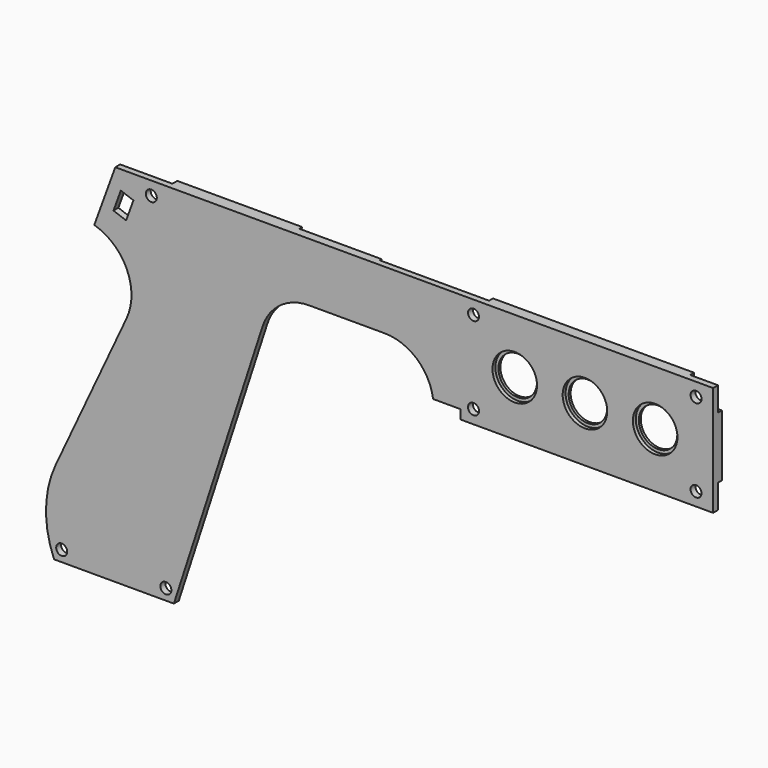
from build123d import *

# Parameters (mm, degrees)
EXTRUDE086_DEPTH = 0.8
EXTRUDE087_DEPTH = 2
SKETCH084_R      = 1.8
EXTRUDE084_DEPTH = 1.6
SKETCH082_W      = 82.8
SKETCH082_H      = 36
SKETCH082_R      = 1.8
EXTRUDE082_DEPTH = 1.6
SKETCH076_R      = 7.3
EXTRUDE077_DEPTH = 1.2
SKETCH074_R      = 1.8
SKETCH074_R_2    = 6.3
EXTRUDE076_DEPTH = 2


with BuildPart() as obj1:
    # Sketch086 → Extrude086 (new body)
    with BuildSketch(Plane(origin=(0, 0, 2), x_dir=(1, 0, 0), z_dir=(0, -1, 0))):
        with BuildLine():
            Line((-137.814627, 37.2), (-144.028897, 18.074442))
            ThreePointArc((-132.428405, 21.823197), (-138.523989, 20.862741), (-144.028897, 18.074442))
            Line((-120.896651, 21.823197), (-132.428405, 21.823197))
            ThreePointArc((-120.896651, 21.823197), (-116.782154, 23.160078), (-114.239255, 26.660078))
            Line((-110.814627, 37.2), (-114.239255, 26.660078))
            Line((-137.814627, 37.2), (-110.814627, 37.2))
        make_face()
    extrude(amount=-EXTRUDE086_DEPTH)


with BuildPart() as obj1_1:
    # Extrude086 placement: moved
    add(obj1.part.moved(Location((0, 2, 0))))


with BuildPart() as extrude087:
    # Sketch087 → Extrude087 (new body)
    with BuildSketch(Plane.XZ):
        with BuildLine():
            add(Edge.make_bspline(
                [(-183.167024, 31.421083), (-188.478801, 29.986374), (-187.676319, 25.030408), (-186.873836, 20.074442), (-181.329747, 20.074442)],
                knots=[5.002901, 5.002901, 5.002901, 6.428441, 6.428441, 7.853982, 7.853982, 7.853982], degree=2, weights=[1, 0.756553, 1, 0.756553, 1]))
            Line((-181.329747, 20.074442), (-144.028897, 20.074442))
            Line((-144.028897, 20.074442), (-137.814627, 39.2))
            Line((-137.814627, 39.2), (-178.753577, 39.2))
            Line((-178.753577, 39.2), (-180.790744, 33.602929))
            ThreePointArc((-180.790744, 33.602929), (-181.712516, 32.221901), (-183.167024, 31.421083))
        make_face()
    extrude(amount=-EXTRUDE087_DEPTH)


with BuildPart() as extrude087_1:
    # Extrude087 placement: moved
    add(extrude087.part.moved(Location((0, 2, 0))))


with BuildPart() as extrude084:
    # Sketch084 → Extrude084 (new body)
    with BuildSketch(Plane.XZ):
        with BuildLine():
            ThreePointArc((-78.51, 31.3), (-76.035126, 32.325126), (-75.01, 34.8))
            Line((-75.01, 39.2), (-75.01, 34.8))
            Line((-82.8, 39.2), (-75.01, 39.2))
            Line((-82.8, 31.3), (-82.8, 39.2))
            Line((-82.8, 31.3), (-78.51, 31.3))
        make_face()
        with Locations((-78.51, 34.8)):
            Circle(SKETCH084_R, mode=Mode.SUBTRACT)
        with BuildLine():
            ThreePointArc((-9.1, 34.8), (-8.074874, 32.325126), (-5.6, 31.3))
            Line((-5.6, 31.3), (0, 31.3))
            Line((0, 39.2), (0, 31.3))
            Line((-9.1, 39.2), (0, 39.2))
            Line((-9.1, 39.2), (-9.1, 34.8))
        make_face()
        with Locations((-5.6, 34.8)):
            Circle(SKETCH084_R, mode=Mode.SUBTRACT)
        with BuildLine():
            ThreePointArc((-75.01, 7.6), (-76.035126, 10.074874), (-78.51, 11.1))
            Line((-82.8, 11.1), (-78.51, 11.1))
            Line((-82.8, 3.2), (-82.8, 11.1))
            Line((-75.01, 3.2), (-82.8, 3.2))
            Line((-75.01, 7.6), (-75.01, 3.2))
        make_face()
        with Locations((-78.51, 7.6)):
            Circle(SKETCH084_R, mode=Mode.SUBTRACT)
        with BuildLine():
            ThreePointArc((-5.6, 11.1), (-8.074874, 10.074874), (-9.1, 7.6))
            Line((-9.1, 7.6), (-9.1, 3.2))
            Line((0, 3.2), (-9.1, 3.2))
            Line((0, 11.1), (0, 3.2))
            Line((0, 11.1), (-5.6, 11.1))
        make_face()
        with Locations((-5.6, 7.6)):
            Circle(SKETCH084_R, mode=Mode.SUBTRACT)
    extrude(amount=-EXTRUDE084_DEPTH)


with BuildPart() as extrude084_1:
    # Extrude084 placement: moved
    add(extrude084.part.moved(Location((0, 2, 0))))


with BuildPart() as cut047:
    # Sketch082 → Extrude082 (new body)
    with BuildSketch(Plane.XZ):
        with Locations((-41.4, 21.2)):
            Rectangle(SKETCH082_W, SKETCH082_H)
        with Locations((-78.51, 34.8)):
            Circle(SKETCH082_R, mode=Mode.SUBTRACT)
        with Locations((-5.6, 34.8)):
            Circle(SKETCH082_R, mode=Mode.SUBTRACT)
        with Locations((-5.6, 7.6)):
            Circle(SKETCH082_R, mode=Mode.SUBTRACT)
        with Locations((-78.51, 7.6)):
            Circle(SKETCH082_R, mode=Mode.SUBTRACT)
        with BuildLine():
            ThreePointArc((-65, 31.2), (-75, 21.2), (-65, 11.2))
            Line((-65, 11.2), (-19, 11.2))
            ThreePointArc((-19, 11.2), (-9, 21.2), (-19, 31.2))
            Line((-65, 31.2), (-19, 31.2))
        make_face(mode=Mode.SUBTRACT)
    extrude(amount=-EXTRUDE082_DEPTH)


with BuildPart() as cut047_1:
    # Extrude082 placement: moved
    add(cut047.part.moved(Location((0, 2, 0))))

    # Cut047: cut Extrude084
    add(extrude084_1.part, mode=Mode.SUBTRACT)


with BuildPart() as obj2:
    # Sketch076 → Extrude077 (new body)
    with BuildSketch(Plane.XZ):
        with Locations((-65, 21.2)):
            Circle(SKETCH076_R)
        with Locations((-42, 21.2)):
            Circle(SKETCH076_R)
        with Locations((-19, 21.2)):
            Circle(SKETCH076_R)
    extrude(amount=-EXTRUDE077_DEPTH)


with BuildPart() as fusion007:
    # Sketch074 → Extrude076 (new body)
    with BuildSketch(Plane.XZ):
        with BuildLine():
            Line((-82.8, 3.2), (0, 3.2))
            Line((0, 3.2), (0, 39.2))
            Line((-195.886839, 39.2), (0, 39.2))
            Line((-202.764796, 20.302968), (-195.886839, 39.2))
            ThreePointArc((-192.175575, -3.18451), (-192.085048, 10.987093), (-202.764796, 20.302968))
            Line((-192.175575, -3.18451), (-215.419579, -53.031439))
            ThreePointArc((-215.419579, -53.031439), (-218.578907, -66.677212), (-215.93199, -80.431568))
            Line((-215.93199, -80.431568), (-176.68528, -80.431568))
            Line((-147.645309, 8.944272), (-176.68528, -80.431568))
            ThreePointArc((-132.428405, 20), (-141.832969, 16.944272), (-147.645309, 8.944272))
            Line((-132.428405, 20), (-107.6, 20))
            ThreePointArc((-91.751972, 6.2), (-97.09286, 16.066483), (-107.6, 20))
            Line((-82.8, 6.2), (-91.751972, 6.2))
            Line((-82.8, 3.2), (-82.8, 6.2))
        make_face()
        with Locations((-213.443268, -76.831568)):
            Circle(SKETCH074_R, mode=Mode.SUBTRACT)
        with Locations((-179.304663, -76.831568)):
            Circle(SKETCH074_R, mode=Mode.SUBTRACT)
        with Locations((-184.079668, 34.8)):
            Circle(SKETCH074_R, mode=Mode.SUBTRACT)
        with Locations((-78.51, 34.8)):
            Circle(SKETCH074_R, mode=Mode.SUBTRACT)
        with Locations((-78.51, 7.6)):
            Circle(SKETCH074_R, mode=Mode.SUBTRACT)
        with Locations((-5.6, 34.8)):
            Circle(SKETCH074_R, mode=Mode.SUBTRACT)
        with Locations((-5.6, 7.6)):
            Circle(SKETCH074_R, mode=Mode.SUBTRACT)
        with Locations((-19, 21.2)):
            Circle(SKETCH074_R_2, mode=Mode.SUBTRACT)
        with Locations((-42, 21.2)):
            Circle(SKETCH074_R_2, mode=Mode.SUBTRACT)
        with Locations((-65, 21.2)):
            Circle(SKETCH074_R_2, mode=Mode.SUBTRACT)
        Polygon((-189.938695, 31.567195), (-192.332836, 24.989347), (-196.467483, 26.494236), (-194.073342, 33.072084), (-193.885404, 33.00368), (-190.126633, 31.635599), align=None, mode=Mode.SUBTRACT)
    extrude(amount=-EXTRUDE076_DEPTH)

    # Cut044: cut obj2
    add(obj2.part, mode=Mode.SUBTRACT)

    # Fusion005: union Cut047
    add(cut047_1.part)

    # Fusion007: union obj1, Extrude087
    add(obj1_1.part)
    add(extrude087_1.part)


solid = fusion007.part
